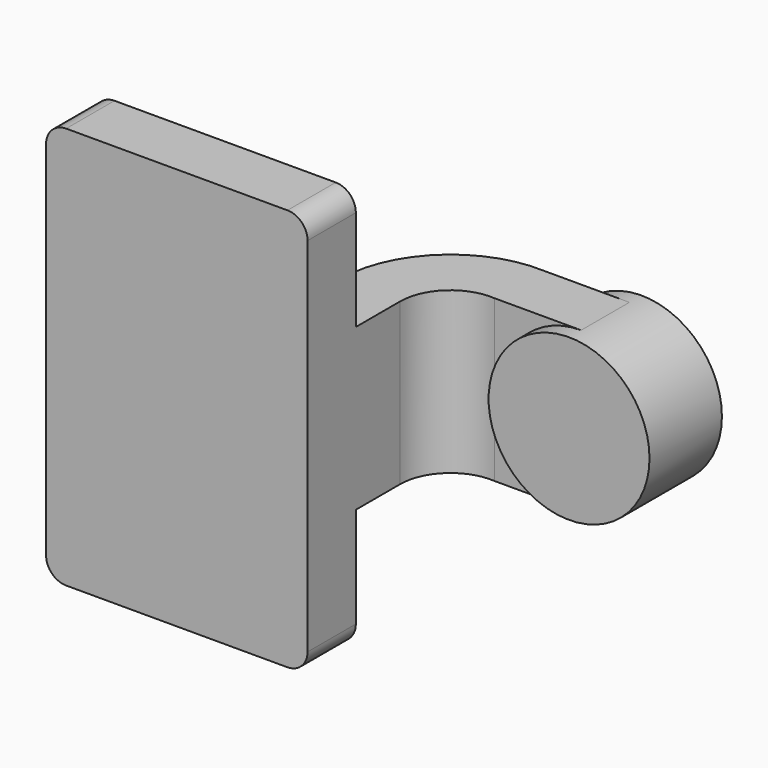
from build123d import *

# Parameters (mm, degrees)
F1_DEPTH = 63.5
F0_W     = 25.4
F0_H     = 19.05
F2_DEPTH = 25.4
F3_DEPTH = 7.9375
F5_R     = 6.35


with BuildPart() as f1:
    # F0 (on Top) → F1 (new body, symmetric)
    with BuildSketch(Plane.XY):
        Polygon((41.275, -9.525), (41.275, 9.525), (22.225, 9.525), (-41.275, 9.525), (-41.275, -9.525), align=None)
    extrude(amount=F1_DEPTH, both=True)

    # F0 (on Top) → F2 (join, symmetric)
    with BuildSketch(Plane.XY):
        with BuildLine():
            Line((22.225, 9.525), (41.275, 9.525))
            Line((41.275, 9.525), (41.275, 27.0309934289))
            ThreePointArc((41.275, 27.0309934289), (46.3478401758, 38.6640913883), (58.3243188197, 42.8625))
            Line((58.3243188197, 42.8625), (60.325, 42.8625))
            Line((60.325, 42.8625), (60.325, 61.9125))
            Line((60.325, 61.9125), (58.8924477992, 61.9125))
            add(Edge.make_bspline(
                [(54.4796435379, 61.8537564061), (55.9299212124, 61.8766562618), (57.4007696655, 61.8961838395), (58.8924477992, 61.9125)],
                knots=[110.8863005517, 110.8863005517, 110.8863005517, 110.8863005517, 113.0396733667, 113.0396733667, 113.0396733667, 113.0396733667], degree=3))
            ThreePointArc((54.4796435379, 61.8537564061), (31.5275701344, 50.7638127469), (22.225, 27.0309934289))
            Line((22.225, 27.0309934289), (22.225, 9.525))
        make_face()
        with Locations((73.025, 52.3875)):
            Rectangle(F0_W, F0_H)
    extrude(amount=F2_DEPTH, both=True)

    # F0 (on Top) → F3 (join, symmetric)
    with BuildSketch(Plane.XY):
        with BuildLine():
            Line((-41.275, 9.525), (22.225, 9.525))
            Line((22.225, 9.525), (22.225, 27.0309934289))
            ThreePointArc((22.225, 27.0309934289), (31.5275701344, 50.7638127469), (54.4796435379, 61.8537564061))
            add(Edge.make_bspline(
                [(-41.275, 9.525), (-40.3356067229, 50.553210625), (-20.2013057937, 60.6745456992), (54.4796435379, 61.8537564061)],
                knots=[0, 0, 0, 0, 110.8863005517, 110.8863005517, 110.8863005517, 110.8863005517], degree=3))
        make_face()
    extrude(amount=F3_DEPTH, both=True)

    # F0 (on Top) → F4 (revolve)
    with BuildSketch(Plane.XY):
        Polygon((85.725, 61.9125), (85.725, 42.8625), (85.725, 38.1), (111.125, 38.1), (111.125, 66.675), (85.725, 66.675), align=None)
    revolve(axis=Axis((85.725, 52.3875, 0), (0, 1, 0)))

    # F5
    f5_edges = [f1.edges().sort_by_distance(p)[0] for p in [
        (-41.275, 0, 63.5),
        (41.275, 0, 63.5),
        (41.275, 0, -63.5),
        (-41.275, 0, -63.5),
    ]]
    fillet(f5_edges, radius=F5_R)


solid = f1.part
